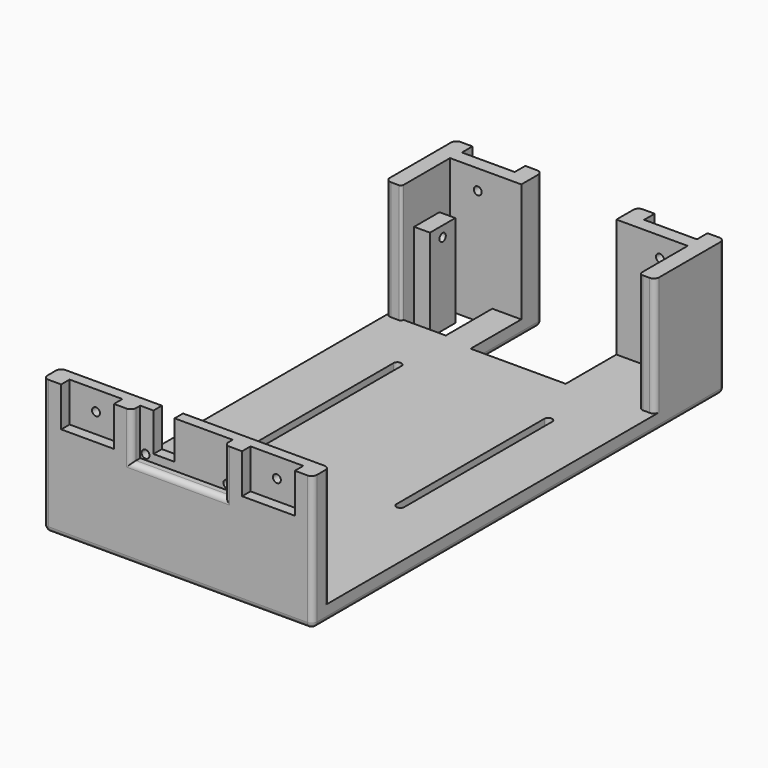
from build123d import *

# Parameters (mm, degrees)
PAD_DEPTH       = 6
SKETCH001_W     = 22
SKETCH001_H     = 22
POCKET_DEPTH    = 6
SKETCH002_W     = 102
SKETCH002_H     = 8
PAD001_DEPTH    = 45
SKETCH003_W     = 35
SKETCH003_H     = 17.5
POCKET001_DEPTH = 4
SKETCH004_R     = 1.5
SKETCH004_W     = 8
SKETCH004_H     = 14.5
POCKET002_DEPTH = 4
SKETCH005_W     = 20
SKETCH005_H     = 4
POCKET003_DEPTH = 15
SKETCH006_R     = 1.5
POCKET004_DEPTH = 4
PAD002_DEPTH    = 45
SKETCH008_W     = 6
SKETCH008_H     = 6
PAD003_DEPTH    = 22
SKETCH009_W     = 20
SKETCH009_H     = 5
POCKET005_DEPTH = 15
SKETCH010_R     = 1.5
POCKET006_DEPTH = 5
SKETCH011_W     = 12
SKETCH011_H     = 35
PAD004_DEPTH    = 6
SKETCH012_R     = 1.5
POCKET007_DEPTH = 12.001
POCKET008_DEPTH = 6
FILLET_R        = 2
FILLET001_R     = 2
FILLET002_R     = 2
FILLET003_R     = 2
FILLET004_R     = 2
FILLET005_R     = 2
FILLET006_R     = 2
FILLET007_R     = 1.5
FILLET008_R     = 2
FILLET009_R     = 1
FILLET010_R     = 2
FILLET011_R     = 2
FILLET012_R     = 2
FILLET013_R     = 2


with BuildPart() as part:
    # Sketch → Pad (new body)
    with BuildSketch(Plane.XY):
        Polygon((0, 0), (0, 195), (33, 195), (33, 161), (69, 161), (69, 195), (102, 195), (102, 0), align=None)
    extrude(amount=PAD_DEPTH)

    # Sketch001 (on Face10 of Pad) → Pocket (cut)
    with BuildSketch(Plane.XY.offset(6)):
        with Locations((11, 174)):
            Rectangle(SKETCH001_W, SKETCH001_H)
    extrude(amount=-POCKET_DEPTH, mode=Mode.SUBTRACT)

    # Sketch002 (on Face4 of Pocket) → Pad001 (join)
    with BuildSketch(Plane.XY.offset(6)):
        with Locations((51, 4)):
            Rectangle(SKETCH002_W, SKETCH002_H)
    extrude(amount=PAD001_DEPTH)

    # Sketch003 (on Face16 of Pad001) → Pocket001 (cut)
    with BuildSketch(Plane.XZ):
        with Locations((51, 42.25)):
            Rectangle(SKETCH003_W, SKETCH003_H)
    extrude(amount=-POCKET001_DEPTH, mode=Mode.SUBTRACT)

    # Sketch004 (on Face23 of Pocket001) → Pocket002 (cut)
    with BuildSketch(Plane.XZ.offset(-4)):
        with Locations((35.5, 35.5)):
            Circle(SKETCH004_R)
        with Locations((66.5, 35.5)):
            Circle(SKETCH004_R)
        with Locations((42.5, 43.75)):
            Rectangle(SKETCH004_W, SKETCH004_H)
    extrude(amount=-POCKET002_DEPTH, mode=Mode.SUBTRACT)

    # Sketch005 (on Face23 of Pocket002) → Pocket003 (cut)
    with BuildSketch(Plane.XY.offset(51)):
        with Locations((85.25, 2)):
            Rectangle(SKETCH005_W, SKETCH005_H)
        with Locations((16.75, 2)):
            Rectangle(SKETCH005_W, SKETCH005_H)
    extrude(amount=-POCKET003_DEPTH, mode=Mode.SUBTRACT)

    # Sketch006 (on Face36 of Pocket003) → Pocket004 (cut)
    with BuildSketch(Plane.XZ.offset(-4)):
        with Locations((16.75, 43.5)):
            Circle(SKETCH006_R)
        with Locations((85.25, 43.5)):
            Circle(SKETCH006_R)
    extrude(amount=-POCKET004_DEPTH, mode=Mode.SUBTRACT)

    # Sketch007 (on Face5 of Pocket004) → Pad002 (join)
    with BuildSketch(Plane.XY.offset(6)):
        Polygon((102, 162), (96, 162), (96, 185), (69, 185), (69, 195), (102, 195), align=None)
        Polygon((6, 162), (0, 162), (0, 195), (33, 195), (33, 185), (6, 185), align=None)
    extrude(amount=PAD002_DEPTH)

    # Sketch008 (on Face9 of Pad002) → Pad003 (join)
    with BuildSketch(Plane.XZ.offset(-185)):
        with Locations((3, 3)):
            Rectangle(SKETCH008_W, SKETCH008_H)
    extrude(amount=PAD003_DEPTH)

    # Sketch009 (on Face29 of Pad003) → Pocket005 (cut)
    with BuildSketch(Plane.XY.offset(51)):
        with Locations((16.5, 192.5)):
            Rectangle(SKETCH009_W, SKETCH009_H)
        with Locations((85.5, 192.5)):
            Rectangle(SKETCH009_W, SKETCH009_H)
    extrude(amount=-POCKET005_DEPTH, mode=Mode.SUBTRACT)

    # Sketch010 (on Face64 of Pocket005) → Pocket006 (cut)
    with BuildSketch(Plane(origin=(0, 190, 0), x_dir=(-1, 0, 0), z_dir=(0, 1, 0))):
        with Locations((-85.5, 43.5)):
            Circle(SKETCH010_R)
        with Locations((-16.5, 43.5)):
            Circle(SKETCH010_R)
    extrude(amount=-POCKET006_DEPTH, mode=Mode.SUBTRACT)

    # Sketch011 (on Face23 of Pocket006) → Pad004 (join)
    with BuildSketch(Plane.YZ.offset(6)):
        with Locations((174, 17.5)):
            Rectangle(SKETCH011_W, SKETCH011_H)
    extrude(amount=PAD004_DEPTH)

    # Sketch012 (on Face67 of Pad004) → Pocket007 (cut, through all)
    with BuildSketch(Plane.YZ.offset(12)):
        with Locations((174, 31)):
            Circle(SKETCH012_R)
    extrude(amount=-POCKET007_DEPTH, mode=Mode.SUBTRACT)

    # Sketch013 (on Face2 of Pocket007) → Pocket008 (cut)
    with BuildSketch(Plane(origin=(0, 0, 0), x_dir=(1, 0, 0), z_dir=(0, 0, -1))):
        with BuildLine():
            ThreePointArc((23.95, -69.55), (22.45, -68.05), (20.95, -69.55))
            Line((20.95, -69.55), (20.95, -139.55))
            ThreePointArc((20.95, -139.55), (22.45, -141.05), (23.95, -139.55))
            Line((23.95, -139.55), (23.95, -69.55))
        make_face()
        with BuildLine():
            ThreePointArc((81.05, -69.55), (79.55, -68.05), (78.05, -69.55))
            Line((78.05, -69.55), (78.05, -139.55))
            ThreePointArc((78.05, -139.55), (79.55, -141.05), (81.05, -139.55))
            Line((81.05, -139.55), (81.05, -69.55))
        make_face()
    extrude(amount=-POCKET008_DEPTH, mode=Mode.SUBTRACT)

    # Fillet
    fillet_edges = [part.edges().sort_by_distance(p)[0] for p in [
        (0, 81.5, 0),
    ]]
    fillet(fillet_edges, radius=FILLET_R)

    # Fillet001
    fillet001_edges = [part.edges().sort_by_distance(p)[0] for p in [
        (102, 97.5, 0),
    ]]
    fillet(fillet001_edges, radius=FILLET001_R)

    # Fillet002
    fillet002_edges = [part.edges().sort_by_distance(p)[0] for p in [
        (51, 0, 0),
    ]]
    fillet(fillet002_edges, radius=FILLET002_R)

    # Fillet003
    fillet003_edges = [part.edges().sort_by_distance(p)[0] for p in [
        (51, 0, 33.5),
        (33.5, 0, 42.25),
        (68.5, 0, 42.25),
    ]]
    fillet(fillet003_edges, radius=FILLET003_R)

    # Fillet004
    fillet004_edges = [part.edges().sort_by_distance(p)[0] for p in [
        (102, 8, 28.5),
    ]]
    fillet(fillet004_edges, radius=FILLET004_R)

    # Fillet005
    fillet005_edges = [part.edges().sort_by_distance(p)[0] for p in [
        (0, 8, 28.5),
    ]]
    fillet(fillet005_edges, radius=FILLET005_R)

    # Fillet006
    fillet006_edges = [part.edges().sort_by_distance(p)[0] for p in [
        (102, 162, 28.5),
    ]]
    fillet(fillet006_edges, radius=FILLET006_R)

    # Fillet007
    fillet007_edges = [part.edges().sort_by_distance(p)[0] for p in [
        (96, 162, 28.5),
    ]]
    fillet(fillet007_edges, radius=FILLET007_R)

    # Fillet008
    fillet008_edges = [part.edges().sort_by_distance(p)[0] for p in [
        (0, 162, 28.5),
    ]]
    fillet(fillet008_edges, radius=FILLET008_R)

    # Fillet009
    fillet009_edges = [part.edges().sort_by_distance(p)[0] for p in [
        (6, 162, 28.5),
    ]]
    fillet(fillet009_edges, radius=FILLET009_R)

    # Fillet010
    fillet010_edges = [part.edges().sort_by_distance(p)[0] for p in [
        (0, 195, 28.5),
    ]]
    fillet(fillet010_edges, radius=FILLET010_R)

    # Fillet011
    fillet011_edges = [part.edges().sort_by_distance(p)[0] for p in [
        (102, 195, 28.5),
    ]]
    fillet(fillet011_edges, radius=FILLET011_R)

    # Fillet012
    fillet012_edges = [part.edges().sort_by_distance(p)[0] for p in [
        (33, 195, 28.5),
        (69, 195, 28.5),
    ]]
    fillet(fillet012_edges, radius=FILLET012_R)

    # Fillet013
    fillet013_edges = [part.edges().sort_by_distance(p)[0] for p in [
        (51, 161, 0),
    ]]
    fillet(fillet013_edges, radius=FILLET013_R)


solid = part.part
